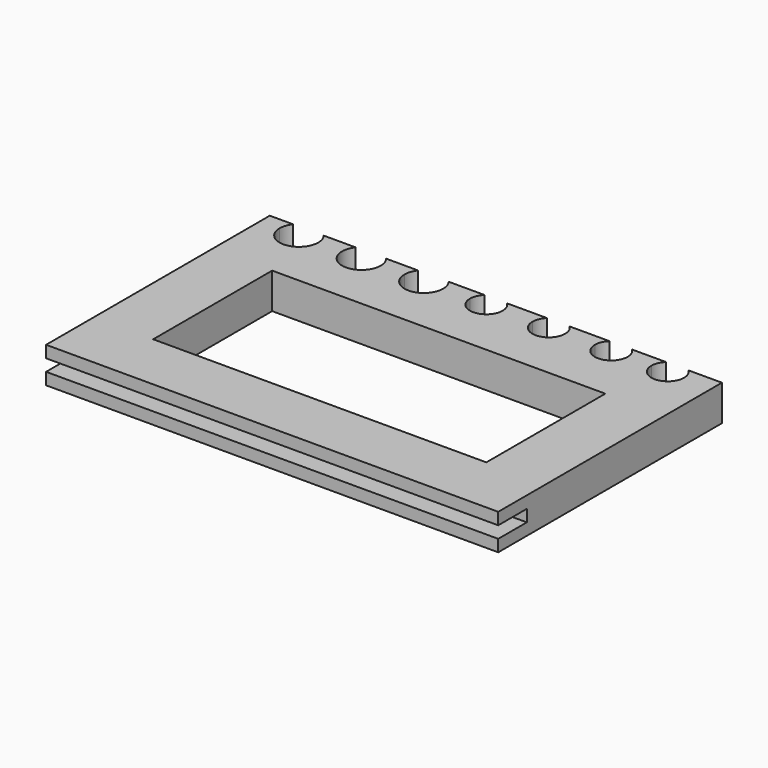
from build123d import *

# Parameters (mm, degrees)
F1_DEPTH      = 3
F1_DEPTH_BACK = 3
F2_W          = 105.405718
F2_H          = 2
F3_DEPTH      = 6


with BuildPart() as f1:
    # F0 (on Top) → F1 (new body, two sides)
    with BuildSketch(Plane.XY) as f1_sk:
        with BuildLine():
            ThreePointArc((-2.75, 0), (-2.525174, 1.089034), (-1.887459, 2))
            Line((-1.887459, 2), (-3.172144, 2))
            ThreePointArc((-3.172144, 2), (-3.602641, 1.040903), (-3.75, 0))
            Line((-3.75, 0), (-2.75, 0))
        make_face()
        with BuildLine():
            ThreePointArc((0, -2.75), (-1.944544, -1.944544), (-2.75, 0))
            Line((-2.75, 0), (-3.75, 0))
            ThreePointArc((-3.75, 0), (-2.65165, -2.65165), (0, -3.75))
            Line((0, -3.75), (0, -2.75))
        make_face()
        with BuildLine():
            ThreePointArc((-3.75, 0), (-3.602641, 1.040903), (-3.172144, 2))
            Line((-3.172144, 2), (-6.75, 2))
            ThreePointArc((-6.75, 2), (-6.376894, 1.030776), (-6.25, 0))
            Line((-6.25, 0), (-3.75, 0))
        make_face()
        with BuildLine():
            ThreePointArc((2.75, 0), (1.944544, -1.944544), (0, -2.75))
            Line((0, -2.75), (0, -3.75))
            ThreePointArc((0, -3.75), (2.65165, -2.65165), (3.75, 0))
            Line((3.75, 0), (2.75, 0))
        make_face()
        with BuildLine():
            ThreePointArc((0, -3.75), (-2.65165, -2.65165), (-3.75, 0))
            Line((-3.75, 0), (-6.25, 0))
            Line((-6.25, 0), (-7.25, 0))
            ThreePointArc((-7.25, 0), (-10.5, -3.25), (-13.75, 0))
            Line((-13.75, 0), (-14.75, 0))
            Line((-14.75, 0), (-16.75, 0))
            Line((-16.75, 0), (-17.25, 0))
            Line((-17.25, 0), (-17.75, 0))
            ThreePointArc((-17.75, 0), (-22.057557, -3.073121), (-23.561738, 2))
            Line((-23.561738, 2), (-24.172144, 2))
            Line((-24.172144, 2), (-24.75, 2))
            ThreePointArc((-24.75, 2), (-25.123106, 1.030776), (-25.25, 0))
            Line((-25.25, 0), (-27.75, 0))
            Line((-27.75, 0), (-28.25, 0))
            ThreePointArc((-28.25, 0), (-31.5, -3.25), (-34.75, 0))
            Line((-34.75, 0), (-38, 0))
            Line((-38, 0), (-38, -45))
            Line((-38, -45), (0, -45))
            Line((0, -45), (0, -35))
            Line((0, -35), (-28, -35))
            Line((-28, -35), (-28, -10))
            Line((-28, -10), (0, -10))
            Line((0, -10), (0, -3.75))
        make_face()
        with BuildLine():
            ThreePointArc((-6.25, 0), (-6.376894, 1.030776), (-6.75, 2))
            Line((-6.75, 2), (-7.327856, 2))
            Line((-7.327856, 2), (-7.938262, 2))
            ThreePointArc((-7.938262, 2), (-7.426879, 1.057557), (-7.25, 0))
            Line((-7.25, 0), (-6.25, 0))
        make_face()
        with BuildLine():
            ThreePointArc((1.887459, 2), (2.525174, 1.089034), (2.75, 0))
            Line((2.75, 0), (3.75, 0))
            ThreePointArc((3.75, 0), (3.602641, 1.040903), (3.172144, 2))
            Line((3.172144, 2), (1.887459, 2))
        make_face()
        with BuildLine():
            ThreePointArc((3.75, 0), (2.65165, -2.65165), (0, -3.75))
            Line((0, -3.75), (0, -10))
            Line((0, -10), (28, -10))
            Line((28, -10), (28, -35))
            Line((28, -35), (0, -35))
            Line((0, -35), (0, -45))
            Line((0, -45), (38, -45))
            Line((38, -45), (38, 0))
            Line((38, 0), (34.25, 0))
            Line((34.25, 0), (33.25, 0))
            ThreePointArc((33.25, 0), (30.5, -2.75), (27.75, 0))
            Line((27.75, 0), (26.75, 0))
            ThreePointArc((26.75, 0), (26.897359, 1.040903), (27.327856, 2))
            Line((27.327856, 2), (24.172144, 2))
            Line((24.172144, 2), (22.887459, 2))
            ThreePointArc((22.887459, 2), (22.089034, -2.525174), (18.25, 0))
            Line((18.25, 0), (17.25, 0))
            Line((17.25, 0), (14.25, 0))
            Line((14.25, 0), (13.25, 0))
            ThreePointArc((13.25, 0), (10.5, -2.75), (7.75, 0))
            Line((7.75, 0), (6.75, 0))
            Line((6.75, 0), (3.75, 0))
        make_face()
        with BuildLine():
            ThreePointArc((3.172144, 2), (3.602641, 1.040903), (3.75, 0))
            Line((3.75, 0), (6.75, 0))
            ThreePointArc((6.75, 0), (6.897359, 1.040903), (7.327856, 2))
            Line((7.327856, 2), (3.172144, 2))
        make_face()
        with BuildLine():
            ThreePointArc((7.327856, 2), (6.897359, 1.040903), (6.75, 0))
            Line((6.75, 0), (7.75, 0))
            ThreePointArc((7.75, 0), (7.974826, 1.089034), (8.612541, 2))
            Line((8.612541, 2), (7.327856, 2))
        make_face()
        with BuildLine():
            Line((-14.75, 0), (-13.75, 0))
            ThreePointArc((-13.75, 0), (-13.573121, 1.057557), (-13.061738, 2))
            Line((-13.061738, 2), (-13.672144, 2))
            Line((-13.672144, 2), (-14.25, 2))
            ThreePointArc((-14.25, 2), (-14.623106, 1.030776), (-14.75, 0))
        make_face()
        with BuildLine():
            Line((-16.75, 0), (-14.75, 0))
            ThreePointArc((-14.75, 0), (-14.623106, 1.030776), (-14.25, 2))
            Line((-14.25, 2), (-17.25, 2))
            ThreePointArc((-17.25, 2), (-16.876894, 1.030776), (-16.75, 0))
        make_face()
        with BuildLine():
            ThreePointArc((12.387459, 2), (13.025174, 1.089034), (13.25, 0))
            Line((13.25, 0), (14.25, 0))
            ThreePointArc((14.25, 0), (14.102641, 1.040903), (13.672144, 2))
            Line((13.672144, 2), (12.387459, 2))
        make_face()
        with BuildLine():
            Line((-17.25, 0), (-16.75, 0))
            ThreePointArc((-16.75, 0), (-16.876894, 1.030776), (-17.25, 2))
            Line((-17.25, 2), (-17.827856, 2))
            Line((-17.827856, 2), (-18.438262, 2))
            ThreePointArc((-18.438262, 2), (-17.926879, 1.057557), (-17.75, 0))
            Line((-17.75, 0), (-17.25, 0))
        make_face()
        with BuildLine():
            ThreePointArc((13.672144, 2), (14.102641, 1.040903), (14.25, 0))
            Line((14.25, 0), (17.25, 0))
            ThreePointArc((17.25, 0), (17.397359, 1.040903), (17.827856, 2))
            Line((17.827856, 2), (13.672144, 2))
        make_face()
        with BuildLine():
            Line((-38, 2), (-38, 0))
            Line((-38, 0), (-34.75, 0))
            ThreePointArc((-34.75, 0), (-34.573121, 1.057557), (-34.061738, 2))
            Line((-34.061738, 2), (-38, 2))
        make_face()
        with BuildLine():
            Line((34.25, 0), (38, 0))
            Line((38, 0), (38, 2))
            Line((38, 2), (33.672144, 2))
            ThreePointArc((33.672144, 2), (34.102641, 1.040903), (34.25, 0))
        make_face()
        with BuildLine():
            ThreePointArc((17.827856, 2), (17.397359, 1.040903), (17.25, 0))
            Line((17.25, 0), (18.25, 0))
            ThreePointArc((18.25, 0), (18.474826, 1.089034), (19.112541, 2))
            Line((19.112541, 2), (17.827856, 2))
        make_face()
        with BuildLine():
            Line((33.25, 0), (34.25, 0))
            ThreePointArc((34.25, 0), (34.102641, 1.040903), (33.672144, 2))
            Line((33.672144, 2), (32.387459, 2))
            ThreePointArc((32.387459, 2), (33.025174, 1.089034), (33.25, 0))
        make_face()
        with BuildLine():
            ThreePointArc((-28.938262, 2), (-28.426879, 1.057557), (-28.25, 0))
            Line((-28.25, 0), (-27.75, 0))
            Line((-27.75, 0), (-25.25, 0))
            ThreePointArc((-25.25, 0), (-25.123106, 1.030776), (-24.75, 2))
            Line((-24.75, 2), (-27.327856, 2))
            Line((-27.327856, 2), (-28.612541, 2))
            Line((-28.612541, 2), (-28.938262, 2))
        make_face()
        with BuildLine():
            Line((26.75, 0), (27.75, 0))
            ThreePointArc((27.75, 0), (27.974826, 1.089034), (28.612541, 2))
            Line((28.612541, 2), (27.327856, 2))
            ThreePointArc((27.327856, 2), (26.897359, 1.040903), (26.75, 0))
        make_face()
    extrude(amount=F1_DEPTH)
    extrude(f1_sk.sketch, amount=-F1_DEPTH_BACK)

    # F2 (on face) → F3 (cut)
    with BuildSketch(Plane.XZ.offset(45)):
        Rectangle(F2_W, F2_H)
    extrude(amount=-F3_DEPTH, mode=Mode.SUBTRACT)


solid = f1.part
